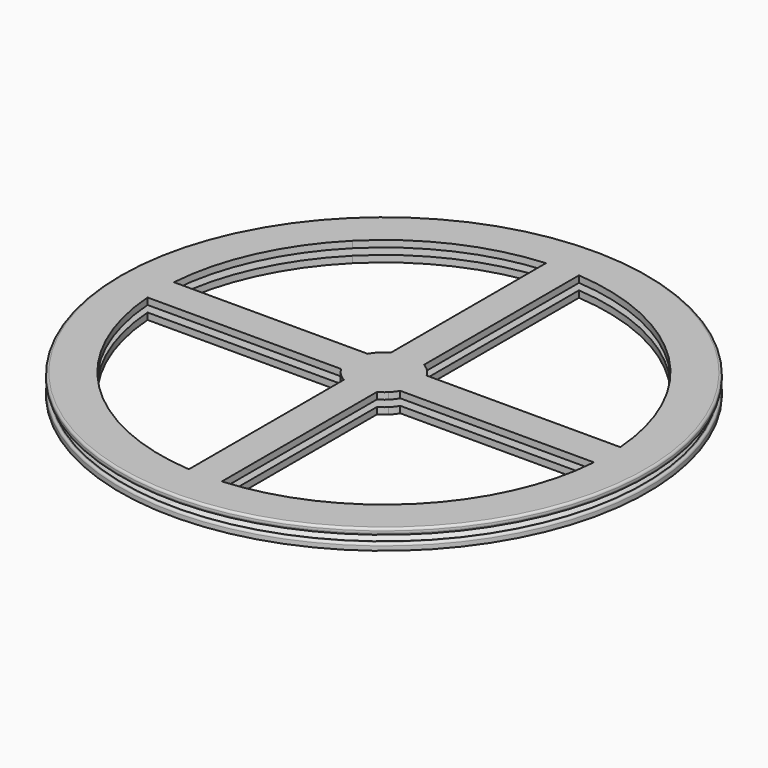
from build123d import *

# Parameters (mm, degrees)
F3_DEPTH = 6.001


with BuildPart() as f1:
    # F0 (on Front) → F1 (revolve)
    with BuildSketch(Plane.XZ):
        with BuildLine():
            Line((-28.967828, 3), (-29.312886, 3))
            ThreePointArc((-29.312886, 3), (-29.798749, 2.798749), (-30, 2.312886))
            Line((-30, 2.312886), (-30, 1))
            Line((-30, 1), (50, 1))
            Line((50, 1), (50, 3))
            Line((50, 3), (0, 3))
            Line((0, 3), (-24.126413, 3))
            ThreePointArc((-24.126413, 3), (-26.54712, 1.124641), (-28.967828, 3))
        make_face()
        with BuildLine():
            ThreePointArc((-30, 5.687114), (-29.798749, 5.201251), (-29.312886, 5))
            Line((-29.312886, 5), (-28.634795, 5))
            ThreePointArc((-28.634795, 5), (-26.54712, 6.124641), (-24.459445, 5))
            Line((-24.459445, 5), (50, 5))
            Line((50, 5), (50, 7))
            Line((50, 7), (-29.312886, 7))
            ThreePointArc((-29.312886, 7), (-29.798749, 6.798749), (-30, 6.312886))
            Line((-30, 6.312886), (-30, 5.687114))
        make_face()
    revolve(axis=Axis((50, 0, 2), (0, 0, -1)))

    # F2 (on face) → F3 (cut, through all)
    with BuildSketch(Plane.XY.offset(7)):
        with BuildLine():
            Line((58.93538, 5.00003), (117.64562, 5.000228))
            ThreePointArc((117.64562, 5.000228), (111.666863, 28.251197), (97.963174, 47.963174))
            Line((97.963174, 47.963174), (57.240211, 7.240211))
            ThreePointArc((57.240211, 7.240211), (58.164988, 6.178533), (58.93538, 5.00003))
        make_face()
        with BuildLine():
            Line((57.240211, 7.240211), (97.963174, 47.963174))
            ThreePointArc((97.963174, 47.963174), (78.25099, 61.666958), (54.999772, 67.645654))
            Line((54.999772, 67.645654), (54.99997, 8.935413))
            ThreePointArc((54.99997, 8.935413), (56.178506, 8.165009), (57.240211, 7.240211))
        make_face()
        with BuildLine():
            Line((44.99997, 8.93538), (44.999772, 67.64562))
            ThreePointArc((44.999772, 67.64562), (21.748803, 61.666863), (2.036826, 47.963174))
            Line((2.036826, 47.963174), (42.759789, 7.240211))
            ThreePointArc((42.759789, 7.240211), (43.821467, 8.164988), (44.99997, 8.93538))
        make_face()
        with BuildLine():
            Line((42.759789, 7.240211), (2.036826, 47.963174))
            ThreePointArc((2.036826, 47.963174), (-11.666958, 28.25099), (-17.645654, 4.999772))
            Line((-17.645654, 4.999772), (41.064587, 4.99997))
            ThreePointArc((41.064587, 4.99997), (41.834991, 6.178506), (42.759789, 7.240211))
        make_face()
        with BuildLine():
            ThreePointArc((-17.64562, -5.000228), (-11.666863, -28.251197), (2.036826, -47.963174))
            Line((2.036826, -47.963174), (42.759789, -7.240211))
            ThreePointArc((42.759789, -7.240211), (41.835012, -6.178533), (41.06462, -5.00003))
            Line((41.06462, -5.00003), (-17.64562, -5.000228))
        make_face()
        with BuildLine():
            ThreePointArc((2.036826, -47.963174), (21.74901, -61.666958), (45.000228, -67.645654))
            Line((45.000228, -67.645654), (45.00003, -8.935413))
            ThreePointArc((45.00003, -8.935413), (43.821494, -8.165009), (42.759789, -7.240211))
            Line((42.759789, -7.240211), (2.036826, -47.963174))
        make_face()
        with BuildLine():
            ThreePointArc((55.000228, -67.64562), (78.251197, -61.666863), (97.963174, -47.963174))
            Line((97.963174, -47.963174), (57.240211, -7.240211))
            ThreePointArc((57.240211, -7.240211), (56.178533, -8.164988), (55.00003, -8.93538))
            Line((55.00003, -8.93538), (55.000228, -67.64562))
        make_face()
        with BuildLine():
            ThreePointArc((97.963174, -47.963174), (111.666958, -28.25099), (117.645654, -4.999772))
            Line((117.645654, -4.999772), (58.935413, -4.99997))
            ThreePointArc((58.935413, -4.99997), (58.165009, -6.178506), (57.240211, -7.240211))
            Line((57.240211, -7.240211), (97.963174, -47.963174))
        make_face()
    extrude(amount=-F3_DEPTH, mode=Mode.SUBTRACT)


solid = f1.part
